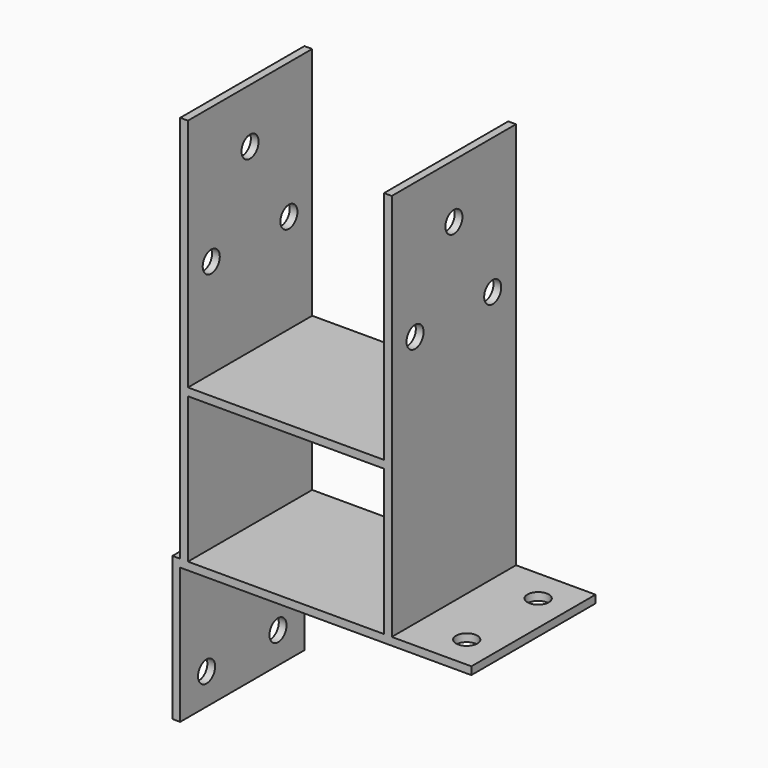
from build123d import *

# Parameters (mm, degrees)
F1_W     = 101
F1_H     = 4
F2_DEPTH = 80
F3_R     = 5.5
F5_DEPTH = 25
F4_R     = 5.5
F6_DEPTH = 25
F7_R     = 5.5
F8_DEPTH = 113.001


with BuildPart() as f2:
    # F0 (on Front) + F1 (on face) → F2 (new body)
    with BuildSketch(Plane.XZ):
        Polygon((0, -70), (0, 0), (150, 0), (150, 4), (-4, 4), (-4, -70), align=None)
    with BuildSketch(Plane.XZ):
        Polygon((0, 4), (4, 4), (4, 79), (4, 83), (4, 204), (0, 204), align=None)
        with Locations((54.5, 81)):
            Rectangle(F1_W, F1_H)
        Polygon((105, 79), (105, 4), (109, 4), (109, 204), (105, 204), (105, 83), align=None)
    extrude(amount=F2_DEPTH)

    # F3 (on face) → F5 (cut)
    with BuildSketch(Plane.XY.offset(4)):
        with Locations((134, -17)):
            Circle(F3_R)
        with Locations((134, -63)):
            Circle(F3_R)
    extrude(amount=-F5_DEPTH, mode=Mode.SUBTRACT)

    # F4 (on face) → F6 (cut)
    with BuildSketch(Plane(origin=(-4, 0, 0), x_dir=(0, -1, 0), z_dir=(-1, 0, 0))):
        with Locations((17, -54)):
            Circle(F4_R)
        with Locations((63, -54)):
            Circle(F4_R)
    extrude(amount=-F6_DEPTH, mode=Mode.SUBTRACT)

    # F7 (on face) → F8 (cut, through all)
    with BuildSketch(Plane.YZ.offset(109)):
        with Locations((-40, 176)):
            Circle(F7_R)
        with Locations((-15, 134)):
            Circle(F7_R)
        with Locations((-65, 134)):
            Circle(F7_R)
    extrude(amount=-F8_DEPTH, mode=Mode.SUBTRACT)


solid = f2.part
